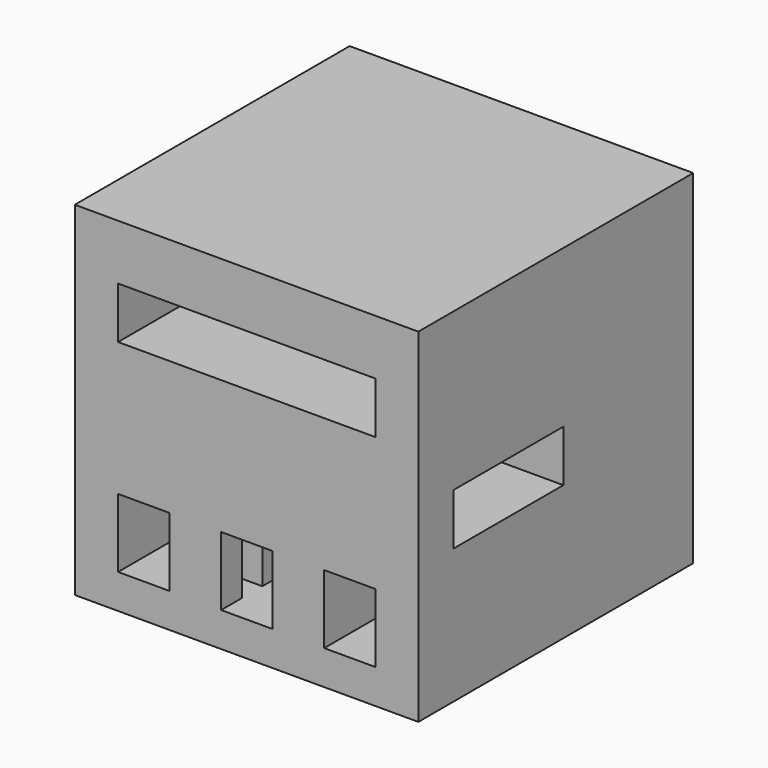
from build123d import *

# Parameters (mm, degrees)
F0_W     = 20
F0_H     = 20
F1_DEPTH = 20
F2_W     = 3
F2_H     = 4
F2_W_2   = 15
F2_H_2   = 3
F3_DEPTH = 20.001
F4_W     = 8
F4_H     = 3
F5_DEPTH = 20.001
F6_W     = 1.5
F6_H     = 4
F7_DEPTH = 3


with BuildPart() as f1:
    # F0 (on Top) → F1 (new body)
    with BuildSketch(Plane.XY):
        Rectangle(F0_W, F0_H)
    extrude(amount=F1_DEPTH)

    # F2 (on face) → F3 (cut, through all)
    with BuildSketch(Plane.XZ.offset(10)):
        with Locations((-5.98057, 4)):
            Rectangle(F2_W, F2_H)
        with Locations((0.01943, 4)):
            Rectangle(F2_W, F2_H)
        with Locations((6.01943, 4)):
            Rectangle(F2_W, F2_H)
        with Locations((0.01943, 15.283564)):
            Rectangle(F2_W_2, F2_H_2)
    extrude(amount=-F3_DEPTH, mode=Mode.SUBTRACT)

    # F4 (on face) → F5 (cut, through all)
    with BuildSketch(Plane.YZ.offset(10)):
        with Locations((-3.447752, 9.344094)):
            Rectangle(F4_W, F4_H)
    extrude(amount=-F5_DEPTH, mode=Mode.SUBTRACT)

    # F6 (on face) → F7 (cut, through all)
    with BuildSketch(Plane.YZ.offset(-1.48057)):
        with Locations((-7.75, 4)):
            Rectangle(F6_W, F6_H)
        with Locations((-1.14, 4)):
            Rectangle(F6_W, F6_H)
        with Locations((5.47, 4)):
            Rectangle(F6_W, F6_H)
    extrude(amount=-F7_DEPTH, mode=Mode.SUBTRACT)


solid = f1.part
